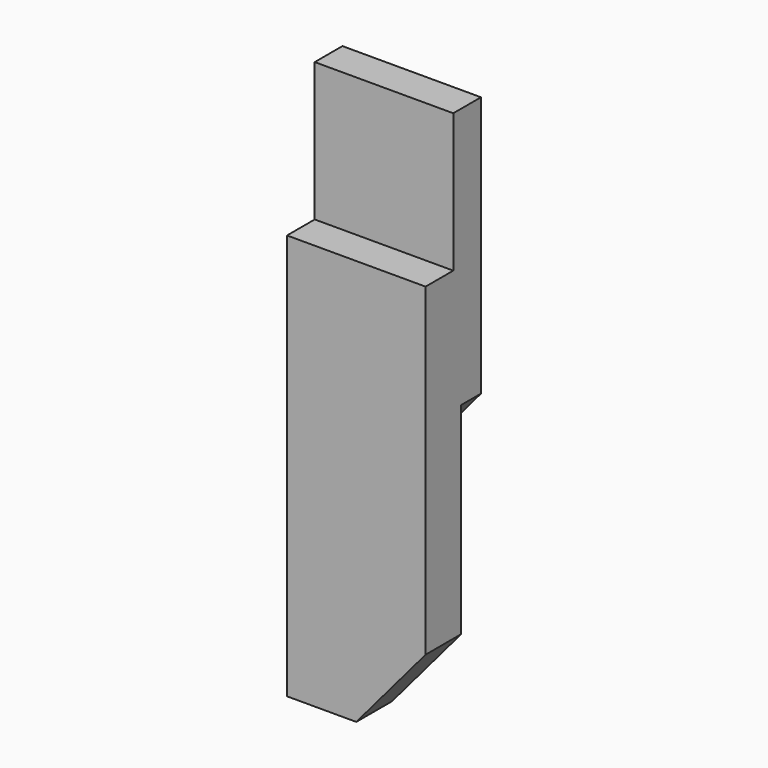
from build123d import *

# Parameters (mm, degrees)
F0_W     = 70
F0_H     = 275
F1_DEPTH = 35
F2_W     = 17.5
F2_H     = 70
F3_DEPTH = 70.001
F5_DEPTH = 12.5
F6_DEPTH = 35.001


with BuildPart() as f1:
    # F0 (on Front) → F1 (new body)
    with BuildSketch(Plane.XZ):
        with Locations((35, 137.5)):
            Rectangle(F0_W, F0_H)
    extrude(amount=F1_DEPTH)

    # F2 (on face) → F3 (cut, through all)
    with BuildSketch(Plane.YZ.offset(70)):
        with Locations((-26.25, 240)):
            Rectangle(F2_W, F2_H)
    extrude(amount=-F3_DEPTH, mode=Mode.SUBTRACT)

    # F4 (on face) → F5 (cut, symmetric)
    with BuildSketch(Plane(origin=(0, 0, 0), x_dir=(-1, 0, 0), z_dir=(0, 1, 0))):
        Polygon((-70, 143.1957509073), (-70, 41.2869863212), (-35, 0), (0, 0), (0, 60.6217782649), align=None)
    extrude(amount=F5_DEPTH, both=True, mode=Mode.SUBTRACT)

    # F6 (cut, through all): a face of the model
    f6_faces = [f1.faces().sort_by_distance(p)[0] for p in [
        (58.3333333333, 0, 13.7623287737),
    ]]
    extrude(f6_faces, amount=-F6_DEPTH, mode=Mode.SUBTRACT)


solid = f1.part
